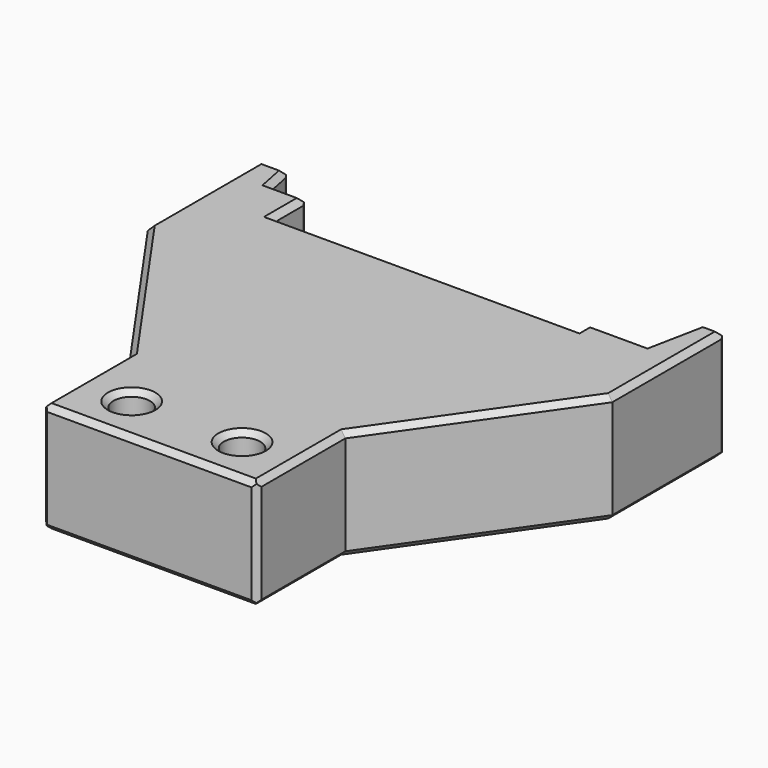
from build123d import *

# Parameters (mm, degrees)
F1_DEPTH = 10
F2_D     = 3.3
F3_SIZE  = 0.5
F4_R     = 0.5
F5_SIZE  = 0.5


with BuildPart() as f1:
    # F0 (on Top) → F1 (new body)
    with BuildSketch(Plane.XY):
        Polygon((9.75, -9.43), (21.035, 6.69), (21.035, 19.43), (19.0360967857, 19.43), (18.035, 14.42), (12.745, 14.42), (12.745, 13.22), (-14.835, 13.22), (-14.835, 16.93), (-18.035, 16.93), (-18.5345492942, 19.43), (-21.035, 19.43), (-21.035, 6.69), (-9.75, -9.43), (-9.75, -19.43), (9.75, -19.43), align=None)
    extrude(amount=F1_DEPTH)

    # F2 (through all)
    with Locations(Plane(origin=(0, 0, 0), x_dir=(1, 0, 0), z_dir=(0, 0, -1))):
        with Locations((5, 15.18), (-5, 15.18)):
            Hole(F2_D / 2)

    # F3
    f3_edges = [f1.edges().sort_by_distance(p)[0] for p in [
        (-15.3925, -1.37, 10),
        (-21.035, 13.06, 10),
        (-9.75, -14.43, 10),
        (-19.784775, 19.43, 10),
        (0, -19.43, 10),
        (-18.284775, 18.18, 10),
        (9.75, -14.43, 10),
        (-16.435, 16.93, 10),
        (15.3925, -1.37, 10),
        (-14.835, 15.075, 10),
        (21.035, 13.06, 10),
        (-1.045, 13.22, 10),
        (20.035548, 19.43, 10),
        (12.745, 13.82, 10),
        (18.535548, 16.925, 10),
        (15.39, 14.42, 10),
        (-6.65, -15.18, 10),
        (3.35, -15.18, 10),
        (-15.3925, -1.37, 0),
        (-21.035, 13.06, 0),
        (-9.75, -14.43, 0),
        (-19.784775, 19.43, 0),
        (0, -19.43, 0),
        (-18.284775, 18.18, 0),
        (9.75, -14.43, 0),
        (-16.435, 16.93, 0),
        (15.3925, -1.37, 0),
        (-14.835, 15.075, 0),
        (21.035, 13.06, 0),
        (-1.045, 13.22, 0),
        (20.035548, 19.43, 0),
        (12.745, 13.82, 0),
        (18.535548, 16.925, 0),
        (15.39, 14.42, 0),
        (-6.65, -15.18, 0),
        (3.35, -15.18, 0),
    ]]
    chamfer(f3_edges, length=F3_SIZE)

    # F4
    f4_edges = [f1.edges().sort_by_distance(p)[0] for p in [
        (-21.035, 19.43, 5),
        (-18.534549, 19.43, 5),
        (-18.035, 16.93, 5),
        (-14.835, 16.93, 5),
        (-14.835, 13.22, 5),
        (21.035, 19.43, 5),
        (19.036097, 19.43, 5),
        (18.035, 14.42, 5),
        (12.745, 14.42, 5),
        (12.745, 13.22, 5),
    ]]
    fillet(f4_edges, radius=F4_R)

    # F5
    f5_edges = [f1.edges().sort_by_distance(p)[0] for p in [
        (-9.75, -19.43, 5),
        (9.75, -19.43, 5),
    ]]
    chamfer(f5_edges, length=F5_SIZE)


solid = f1.part
